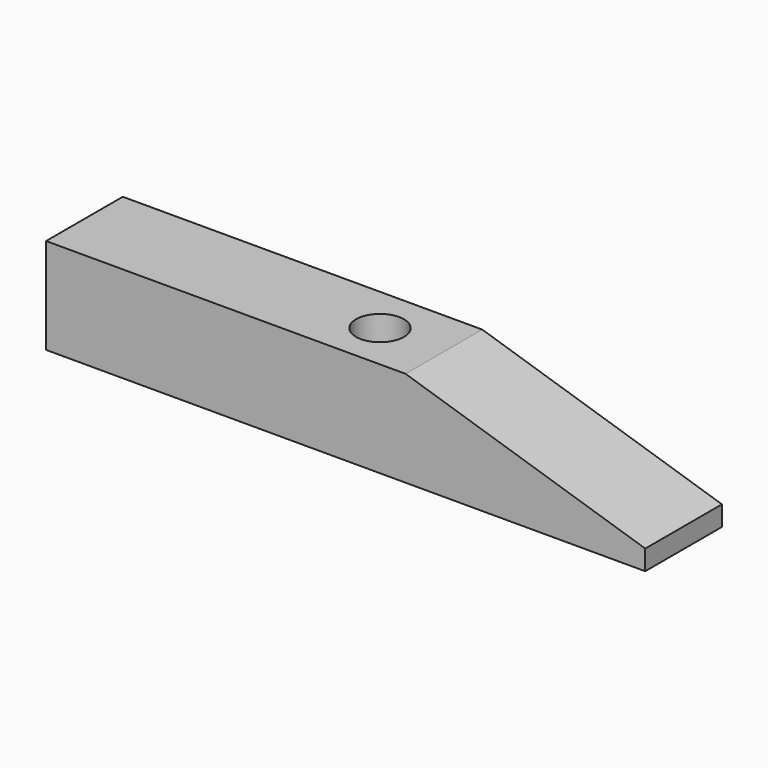
from build123d import *

# Parameters (mm, degrees)
F1_DEPTH = 12
F2_R     = 2.5
F3_DEPTH = 4
F4_R     = 3
F5_DEPTH = 12


with BuildPart() as f1:
    # F0 (on Front) → F1 (new body)
    with BuildSketch(Plane.XZ):
        Polygon((18.994565, 9.5), (-26.005435, 9.5), (-26.005435, -2.5), (48.994565, -2.5), (48.994565, 0), align=None)
    extrude(amount=F1_DEPTH)

    # F2 (on face) → F3 (cut)
    with BuildSketch(Plane(origin=(0, 0, -2.5), x_dir=(1, 0, 0), z_dir=(0, 0, -1))):
        with Locations((-18.005435, 6)):
            Circle(F2_R)
    extrude(amount=-F3_DEPTH, mode=Mode.SUBTRACT)

    # F4 (on face) → F5 (cut)
    with BuildSketch(Plane(origin=(0, 0, -2.5), x_dir=(1, 0, 0), z_dir=(0, 0, -1))):
        with Locations((10.994565, 6)):
            Circle(F4_R)
    extrude(amount=-F5_DEPTH, mode=Mode.SUBTRACT)


solid = f1.part
